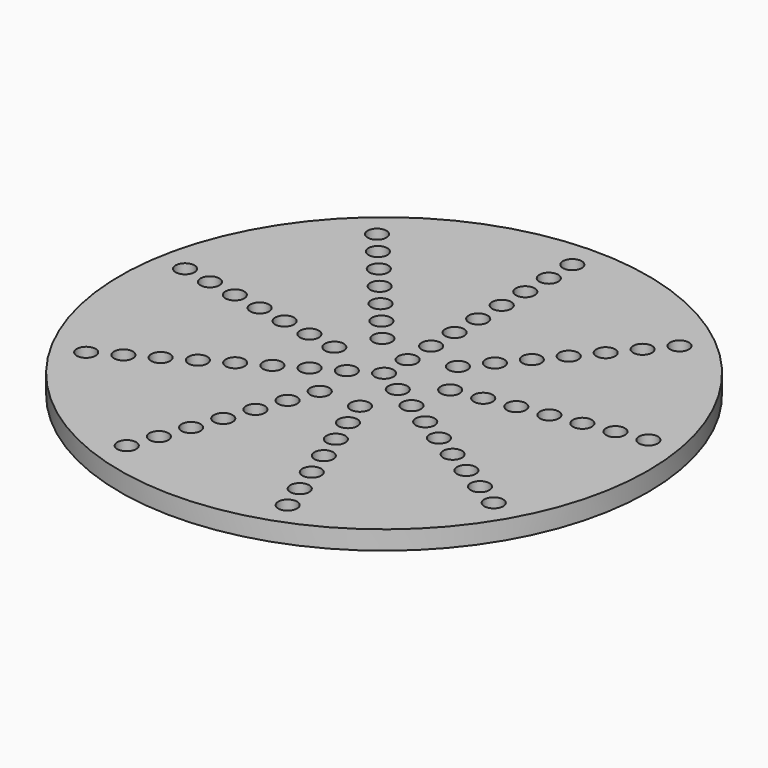
from build123d import *

# Parameters (mm, degrees)
F0_R     = 88.9
F1_DEPTH = 6.35
F2_R     = 3.175
F3_DEPTH = 6.351


with BuildPart() as f1:
    # F0 (on Top) → F1 (new body)
    with BuildSketch(Plane.XY):
        Circle(F0_R)
    extrude(amount=F1_DEPTH)

    # F2 (on face) → F3 (cut, through all)
    with BuildSketch(Plane.XY.offset(6.35)):
        Circle(F2_R)
        with Locations((0, 9.906)):
            Circle(F2_R)
        with Locations((0, 19.812)):
            Circle(F2_R)
        with Locations((0, 29.718)):
            Circle(F2_R)
        with Locations((0, 39.624)):
            Circle(F2_R)
        with Locations((0, 49.53)):
            Circle(F2_R)
        with Locations((0, 59.436)):
            Circle(F2_R)
        with Locations((0, 69.342)):
            Circle(F2_R)
        with Locations((185.832307, 80.557868)):
            Circle(F2_R)
        with Locations((0, 79.248)):
            Circle(F2_R)
        with Locations((-68.630781, -39.624)):
            Circle(F2_R)
        with Locations((-60.051934, -34.671)):
            Circle(F2_R)
        with Locations((-51.473086, -29.718)):
            Circle(F2_R)
        with Locations((-42.894238, -24.765)):
            Circle(F2_R)
        with Locations((-34.315391, -19.812)):
            Circle(F2_R)
        with Locations((-25.736543, -14.859)):
            Circle(F2_R)
        with Locations((-17.157695, -9.906)):
            Circle(F2_R)
        with Locations((-8.578848, -4.953)):
            Circle(F2_R)
        with Locations((68.630781, -39.624)):
            Circle(F2_R)
        with Locations((60.051934, -34.671)):
            Circle(F2_R)
        with Locations((51.473086, -29.718)):
            Circle(F2_R)
        with Locations((42.894238, -24.765)):
            Circle(F2_R)
        with Locations((34.315391, -19.812)):
            Circle(F2_R)
        with Locations((25.736543, -14.859)):
            Circle(F2_R)
        with Locations((17.157695, -9.906)):
            Circle(F2_R)
        with Locations((8.578848, -4.953)):
            Circle(F2_R)
        with Locations((-6.776103, -18.61719)):
            Circle(F2_R)
        with Locations((-10.164155, -27.925785)):
            Circle(F2_R)
        with Locations((-13.552206, -37.23438)):
            Circle(F2_R)
        with Locations((-16.940258, -46.542976)):
            Circle(F2_R)
        with Locations((-20.328309, -55.851571)):
            Circle(F2_R)
        with Locations((-23.716361, -65.160166)):
            Circle(F2_R)
        with Locations((-27.104412, -74.468761)):
            Circle(F2_R)
        with Locations((-12.734908, 15.176873)):
            Circle(F2_R)
        with Locations((-19.102362, 22.765309)):
            Circle(F2_R)
        with Locations((-25.469816, 30.353745)):
            Circle(F2_R)
        with Locations((-31.83727, 37.942181)):
            Circle(F2_R)
        with Locations((-38.204724, 45.530618)):
            Circle(F2_R)
        with Locations((-44.572178, 53.119054)):
            Circle(F2_R)
        with Locations((-50.939632, 60.70749)):
            Circle(F2_R)
        with Locations((19.511011, 3.440318)):
            Circle(F2_R)
        with Locations((29.266517, 5.160477)):
            Circle(F2_R)
        with Locations((39.022022, 6.880635)):
            Circle(F2_R)
        with Locations((48.777528, 8.600794)):
            Circle(F2_R)
        with Locations((58.533034, 10.320953)):
            Circle(F2_R)
        with Locations((68.288539, 12.041112)):
            Circle(F2_R)
        with Locations((78.044045, 13.761271)):
            Circle(F2_R)
        with Locations((-19.511011, 3.440318)):
            Circle(F2_R)
        with Locations((-29.266517, 5.160477)):
            Circle(F2_R)
        with Locations((-39.022022, 6.880635)):
            Circle(F2_R)
        with Locations((-48.777528, 8.600794)):
            Circle(F2_R)
        with Locations((-58.533034, 10.320953)):
            Circle(F2_R)
        with Locations((-68.288539, 12.041112)):
            Circle(F2_R)
        with Locations((-78.044045, 13.761271)):
            Circle(F2_R)
        with Locations((12.734908, 15.176873)):
            Circle(F2_R)
        with Locations((19.102362, 22.765309)):
            Circle(F2_R)
        with Locations((25.469816, 30.353745)):
            Circle(F2_R)
        with Locations((31.83727, 37.942181)):
            Circle(F2_R)
        with Locations((38.204724, 45.530618)):
            Circle(F2_R)
        with Locations((44.572178, 53.119054)):
            Circle(F2_R)
        with Locations((50.939632, 60.70749)):
            Circle(F2_R)
        with Locations((6.776103, -18.61719)):
            Circle(F2_R)
        with Locations((10.164155, -27.925785)):
            Circle(F2_R)
        with Locations((13.552206, -37.23438)):
            Circle(F2_R)
        with Locations((16.940258, -46.542976)):
            Circle(F2_R)
        with Locations((20.328309, -55.851571)):
            Circle(F2_R)
        with Locations((23.716361, -65.160166)):
            Circle(F2_R)
        with Locations((27.104412, -74.468761)):
            Circle(F2_R)
    extrude(amount=-F3_DEPTH, mode=Mode.SUBTRACT)


solid = f1.part
